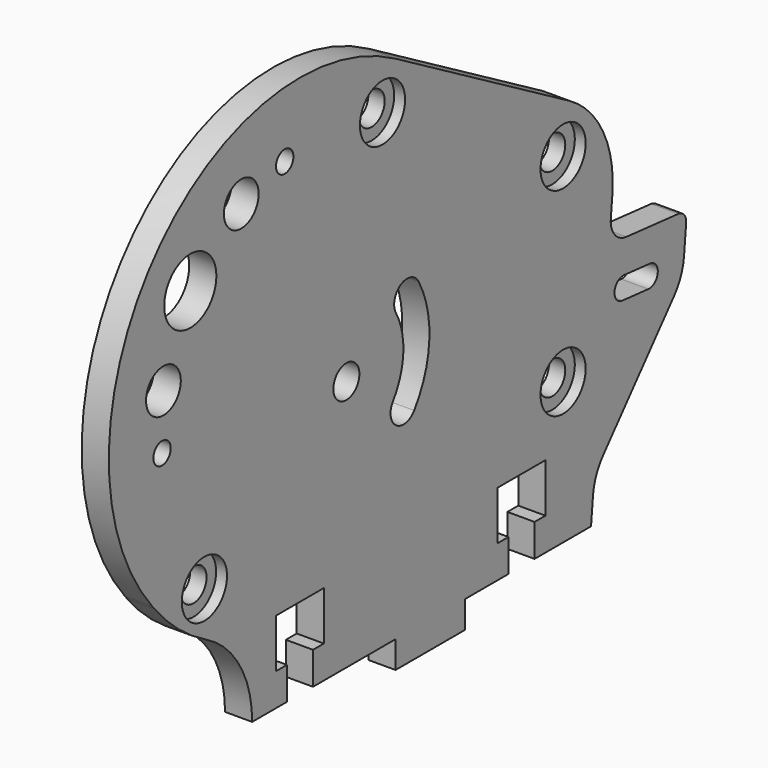
from build123d import *

# Parameters (mm, degrees)
F0_R     = 1.5
F0_R_2   = 1
F0_R_3   = 2
F0_R_4   = 3
F1_DEPTH = 2.5
F2_R     = 2.6
F3_DEPTH = 1


with BuildPart() as f1:
    # F0 (on Right) → F1 (new body)
    with BuildSketch(Plane.YZ):
        with BuildLine():
            ThreePointArc((-24.764499, 8.807669), (-20.91644, 5.130545), (-19.5, 0))
            Line((-19.5, 0), (-15.5, 0))
            Line((-15.5, 0), (-15.5, 3))
            Line((-15.5, 3), (-16.75, 3))
            Line((-16.75, 3), (-16.75, 7.5))
            Line((-16.75, 7.5), (-11.25, 7.5))
            Line((-11.25, 7.5), (-11.25, 3))
            Line((-11.25, 3), (-12.5, 3))
            Line((-12.5, 3), (-12.5, 0))
            Line((-12.5, 0), (-3, 0))
            Line((-3, 0), (-3, -2.5))
            Line((-3, -2.5), (5, -2.5))
            Line((5, -2.5), (5, 0))
            Line((5, 0), (10, 0))
            Line((10, 0), (10, 3))
            Line((10, 3), (8.75, 3))
            Line((8.75, 3), (8.75, 7.5))
            Line((8.75, 7.5), (14.25, 7.5))
            Line((14.25, 7.5), (14.25, 3))
            Line((14.25, 3), (13, 3))
            Line((13, 3), (13, 0))
            Line((13, 0), (19.5, 0))
            Line((19.5, 0), (19.730406, 2.430542))
            ThreePointArc((19.730406, 2.430542), (20.102681, 3.905521), (20.901261, 5.200289))
            Line((20.901261, 5.200289), (29.029949, 14.74632))
            ThreePointArc((29.029949, 14.74632), (29.828529, 16.041087), (30.200804, 17.516067))
            Line((30.200804, 17.516067), (30.450974, 20.155105))
            ThreePointArc((30.450974, 20.155105), (30.22612, 20.886698), (29.549811, 21.245015))
            Line((29.549811, 21.245015), (23.576589, 21.811254))
            ThreePointArc((23.576589, 21.811254), (22.22397, 22.52789), (21.774261, 23.991074))
            Line((21.774261, 23.991074), (21.955369, 25.901569))
            ThreePointArc((21.955369, 25.901569), (20.886782, 31.430613), (17, 35.505553))
            Line((17, 35.505553), (-3, 47.052559))
            ThreePointArc((-3, 47.052559), (-30.769889, 42.239762), (-31.017419, 14.056993))
            Line((-31.017419, 14.056993), (-30.763877, 13.747545))
            ThreePointArc((-30.763877, 13.747545), (-28.006432, 10.983406), (-24.764499, 8.807669))
        make_face()
        with Locations((-25, 13.024149)):
            Circle(F0_R, mode=Mode.SUBTRACT)
        with Locations((-8.660254, 23.185045)):
            Circle(F0_R, mode=Mode.SUBTRACT)
        with BuildLine():
            ThreePointArc((-2.962619, 26.440837), (-2.404462, 28.48741), (-0.357889, 27.929254))
            ThreePointArc((-0.357889, 27.929254), (0.890951, 22.725413), (-0.85181, 17.665537))
            ThreePointArc((-0.85181, 17.665537), (-2.942522, 17.306479), (-3.30158, 19.397191))
            ThreePointArc((-3.30158, 19.397191), (-2.105582, 22.869615), (-2.962619, 26.440837))
        make_face(mode=Mode.SUBTRACT)
        with Locations((16.28461, 13.024149)):
            Circle(F0_R, mode=Mode.SUBTRACT)
        with BuildLine():
            ThreePointArc((23.104724, 16.833569), (22.20356, 17.923479), (23.29347, 18.824643))
            Line((23.29347, 18.824643), (26.280081, 18.541524))
            ThreePointArc((26.280081, 18.541524), (27.181244, 17.451614), (26.091335, 16.55045))
            Line((26.091335, 16.55045), (23.104724, 16.833569))
        make_face(mode=Mode.SUBTRACT)
        with Locations((-29.874508, 26)):
            Circle(F0_R_2, mode=Mode.SUBTRACT)
        with Locations((-29.716234, 31)):
            Circle(F0_R_3, mode=Mode.SUBTRACT)
        with Locations((-26.622516, 37.832197)):
            Circle(F0_R_4, mode=Mode.SUBTRACT)
        with Locations((-20.755296, 42.503999)):
            Circle(F0_R_3, mode=Mode.SUBTRACT)
        with Locations((-4.5, 43.299782)):
            Circle(F0_R, mode=Mode.SUBTRACT)
        with Locations((-15.755296, 43.903425)):
            Circle(F0_R_2, mode=Mode.SUBTRACT)
        with Locations((16.28461, 31.299782)):
            Circle(F0_R, mode=Mode.SUBTRACT)
    extrude(amount=F1_DEPTH)

    # F2 (on face) → F3 (cut)
    with BuildSketch(Plane.YZ.offset(2.5)):
        with Locations((-4.5, 43.299782)):
            Circle(F2_R)
        with Locations((16.28461, 31.299782)):
            Circle(F2_R)
        with Locations((16.28461, 13.024149)):
            Circle(F2_R)
        with Locations((-25, 13.024149)):
            Circle(F2_R)
    extrude(amount=-F3_DEPTH, mode=Mode.SUBTRACT)


solid = f1.part
